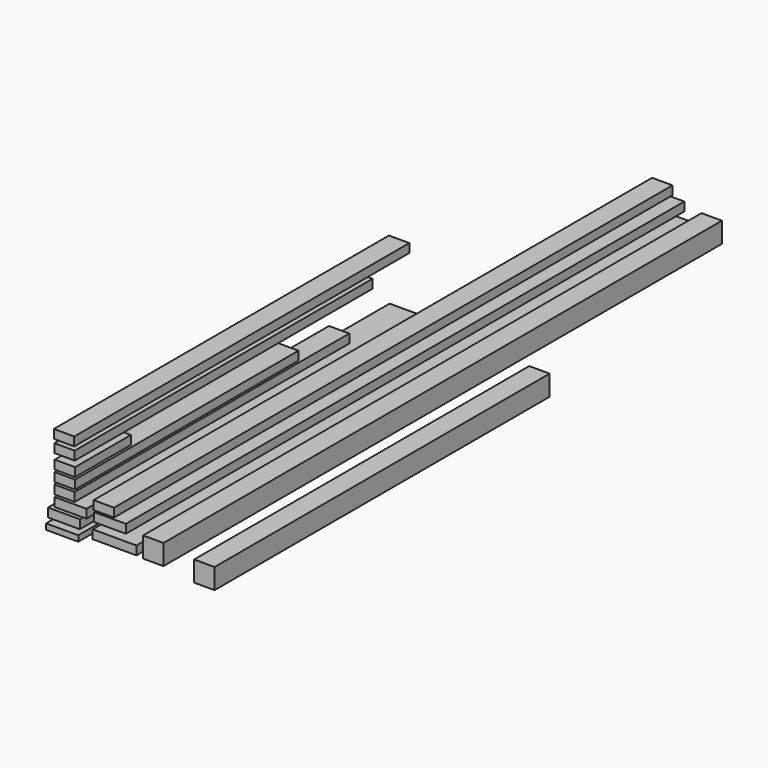
from build123d import *

# Parameters (mm, degrees)
F0_W      = 190.7625421882
F0_H      = 38.0763597786
F1_DEPTH  = 3048
F0_W_2    = 89.0986770391
F0_H_2    = 38.0763541907
F0_W_3    = 139.7402212024
F0_H_3    = 38.0763560534
F0_W_4    = 89.0986695886
F0_H_4    = 89.0986705199
F3_W      = 139.5674049854
F3_H      = 38.2013777271
F4_DEPTH  = 1828.8
F5_W      = 139.3197178841
F5_H      = 38.1182990968
F6_DEPTH  = 1752.6
F7_W      = 140.4655277729
F7_H      = 25.0563025475
F8_DEPTH  = 1828.8
F9_W      = 89.1511589289
F9_H      = 89.0802256763
F10_DEPTH = 1828.8
F11_W     = 88.9163315296
F11_H     = 38.2546931505
F12_DEPTH = 304.8
F13_W     = 88.9163315296
F13_H     = 38.2547080517
F14_DEPTH = 1219.2
F15_W     = 88.9163315296
F15_H     = 38.2547006011
F16_DEPTH = 1498.6
F17_W     = 88.9163315296
F17_H     = 38.2546931505
F18_DEPTH = 1625.6
F19_W     = 89.1147255898
F19_H     = 38.2541418076
F20_DEPTH = 1828.8


with BuildPart() as f1:
    # F0 (on Front) → F1 (new body)
    with BuildSketch(Plane.XZ):
        with Locations((-165.2513928711, -77.6757653803)):
            Rectangle(F0_W, F0_H)
    extrude(amount=-F1_DEPTH)


with BuildPart() as f1b:
    # F0 (on Front) → F1, piece 2 (new body)
    with BuildSketch(Plane.XZ):
        with Locations((-212.2756913304, 35.7917780057)):
            Rectangle(F0_W_2, F0_H_2)
    extrude(amount=-F1_DEPTH)


with BuildPart() as f1c:
    # F0 (on Front) → F1, piece 3 (new body)
    with BuildSketch(Plane.XZ):
        with Locations((-185.812626034, -9.5190871507)):
            Rectangle(F0_W_3, F0_H_3)
    extrude(amount=-F1_DEPTH)


with BuildPart() as f1d:
    # F0 (on Front) → F1, piece 4 (new body)
    with BuildSketch(Plane.XZ):
        with Locations((3.6172457039, -55.2107128315)):
            Rectangle(F0_W_4, F0_H_4)
    extrude(amount=-F1_DEPTH)


with BuildPart() as f1e:
    # F0 (on Front) → F1, piece 5 (new body)
    with BuildSketch(Plane.XZ):
        with Locations((-378.5708583891, 173.0128061026)):
            Rectangle(F0_W_3, F0_H_3)
    extrude(amount=-F1_DEPTH)


with BuildPart() as f4:
    # F3 (on face) → F4 (new body)
    with BuildSketch(Plane.XZ):
        with Locations((-357.5297147036, -7.6279263012)):
            Rectangle(F3_W, F3_H)
    extrude(amount=-F4_DEPTH)


with BuildPart() as f6:
    # F5 (on face) → F6 (new body)
    with BuildSketch(Plane.XZ):
        with Locations((-386.5427076817, -57.3813859373)):
            Rectangle(F5_W, F5_H)
    extrude(amount=-F6_DEPTH)


with BuildPart() as f8:
    # F7 (on face) → F8 (new body)
    with BuildSketch(Plane.XZ):
        with Locations((-394.0609246492, -114.3748611212)):
            Rectangle(F7_W, F7_H)
    extrude(amount=-F8_DEPTH)


with BuildPart() as f10:
    # F9 (on face) → F10 (new body)
    with BuildSketch(Plane.XZ):
        with Locations((226.684473455, -75.0164631754)):
            Rectangle(F9_W, F9_H)
    extrude(amount=-F10_DEPTH)


with BuildPart() as f12:
    # F11 (on Front) → F12 (new body)
    with BuildSketch(Plane.XZ):
        with Locations((-382.1346908808, 136.1970677972)):
            Rectangle(F11_W, F11_H)
    extrude(amount=-F12_DEPTH)


with BuildPart() as f14:
    # F13 (on Front) → F14 (new body)
    with BuildSketch(Plane.XZ):
        with Locations((-382.1346908808, 88.3938074112)):
            Rectangle(F13_W, F13_H)
    extrude(amount=-F14_DEPTH)


with BuildPart() as f16:
    # F15 (on Front) → F16 (new body)
    with BuildSketch(Plane.XZ):
        with Locations((-383.6855739355, 40.3169505298)):
            Rectangle(F15_W, F15_H)
    extrude(amount=-F16_DEPTH)


with BuildPart() as f18:
    # F17 (on Front) → F18 (new body)
    with BuildSketch(Plane.XZ):
        with Locations((-383.6855739355, 199.0222707391)):
            Rectangle(F17_W, F17_H)
    extrude(amount=-F18_DEPTH)


with BuildPart() as f20:
    # F19 (on Front) → F20 (new body)
    with BuildSketch(Plane.XZ):
        with Locations((-385.8774900436, 252.9801130295)):
            Rectangle(F19_W, F19_H)
    extrude(amount=-F20_DEPTH)


solid = Compound([f1.part, f1b.part, f1c.part, f1d.part, f4.part, f6.part, f8.part, f10.part, f12.part, f14.part, f16.part, f18.part, f20.part])
